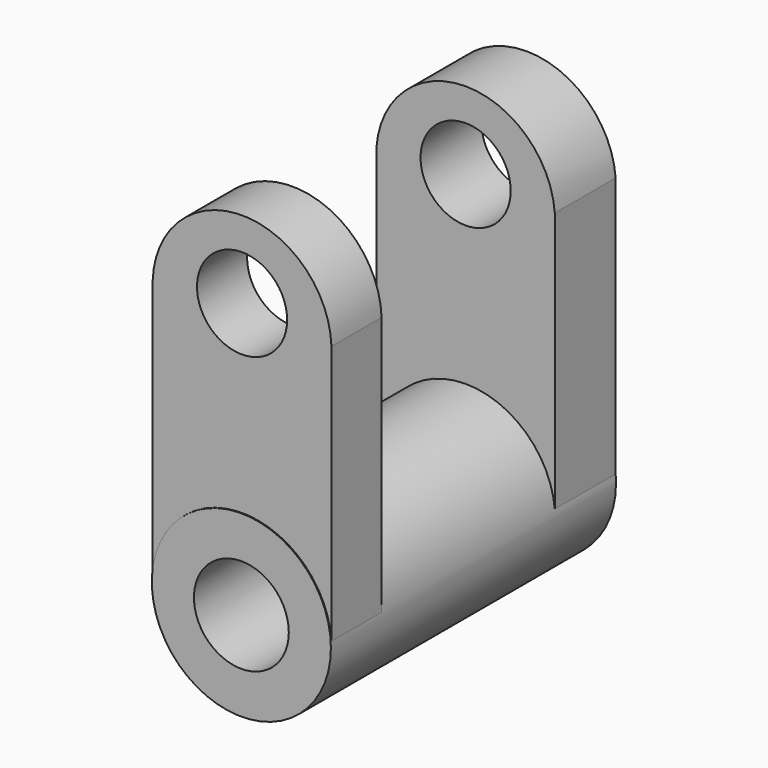
from build123d import *

# Parameters (mm, degrees)
F0_R      = 19.1485137608
F1_DEPTH  = 76.2
F2_R      = 10.1427054409
F3_DEPTH  = 76.2
F4_W      = 38.1332449615
F4_H      = 16.2587165833
F5_DEPTH  = 76.2
F6_W      = 38.222245872
F6_H      = 13.4063065052
F7_DEPTH  = 76.2
F9_DEPTH  = 127
F11_DEPTH = 127
F12_R     = 9.6381691068
F13_DEPTH = 127


with BuildPart() as f1:
    # F0 (on Front) → F1 (new body)
    with BuildSketch(Plane.XZ):
        Circle(F0_R)
    extrude(amount=F1_DEPTH)

    # F2 (on face) → F3 (cut)
    with BuildSketch(Plane.XZ.offset(76.2)):
        Circle(F2_R)
    extrude(amount=-F3_DEPTH, mode=Mode.SUBTRACT)

    # F4 (on Top) → F5 (join)
    with BuildSketch(Plane.XY):
        with Locations((0, -8.1293582916)):
            Rectangle(F4_W, F4_H)
    extrude(amount=F5_DEPTH)

    # F6 (on Top) → F7 (join)
    with BuildSketch(Plane.XY):
        with Locations((0, -69.3134739995)):
            Rectangle(F6_W, F6_H)
    extrude(amount=F7_DEPTH)

    # F8 (on face) → F9 (cut)
    with BuildSketch(Plane.XZ.offset(76.0166272521)):
        with BuildLine():
            ThreePointArc((10.1427054409, 0), (0, 10.1427054409), (-10.1427054409, 0))
            Line((-10.1427054409, 0), (10.1427054409, 0))
        make_face()
    extrude(amount=-F9_DEPTH, mode=Mode.SUBTRACT)

    # F10 (on face) → F11 (cut)
    with BuildSketch(Plane.XZ.offset(76.0166272521)):
        with BuildLine():
            ThreePointArc((-19.111122936, 56.6924431661), (0, 75.16739223), (19.111122936, 56.6924431661))
            Line((19.111122936, 56.6924431661), (19.111122936, 76.2))
            Line((19.111122936, 76.2), (-19.111122936, 76.2))
            Line((-19.111122936, 76.2), (-19.111122936, 56.6924431661))
        make_face()
    extrude(amount=-F11_DEPTH, mode=Mode.SUBTRACT)

    # F12 (on face) → F13 (cut)
    with BuildSketch(Plane.XZ.offset(76.0166272521)):
        with Locations((0, 58.5922114551)):
            Circle(F12_R)
    extrude(amount=-F13_DEPTH, mode=Mode.SUBTRACT)


solid = f1.part
